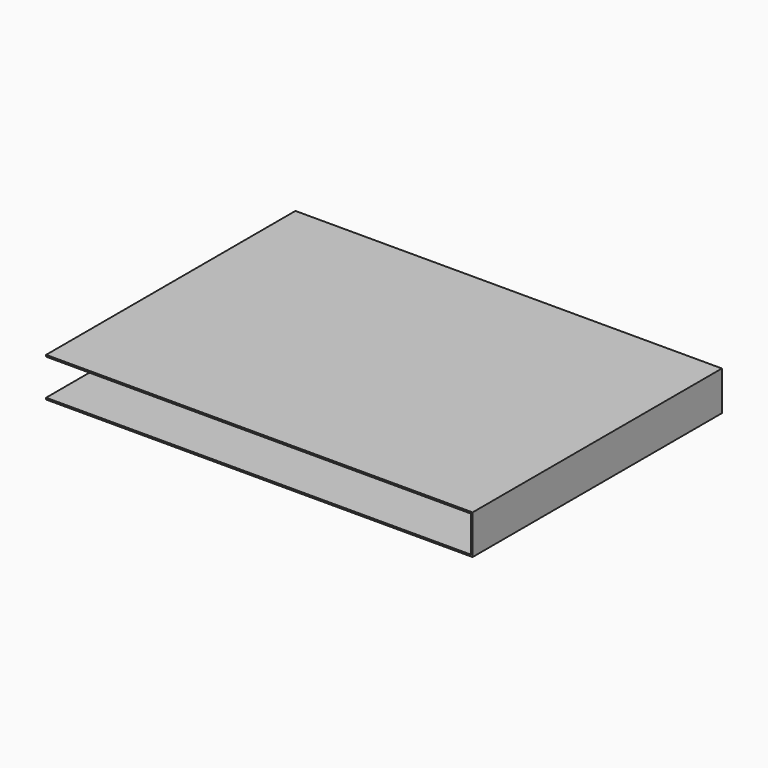
from build123d import *

# Parameters (mm, degrees)
BOX067_W               = 9.5
BOX067_H               = 12.95
BOX067_DEPTH           = 1.1
BOX066_W               = 9.5
BOX066_H               = 13
BOX066_DEPTH           = 1.2
CUT016_PLACEMENT_ANGLE = 270


with BuildPart() as small_cu_gnd_electrode018:
    # Box067 → Box067 (new body)
    with BuildSketch(Plane.XY.offset(0.05)):
        with Locations((4.75, 6.475)):
            Rectangle(BOX067_W, BOX067_H)
    extrude(amount=BOX067_DEPTH)


with BuildPart() as large_cu_electrode_long_axis_v_x:
    # Box066 → Box066 (new body)
    with BuildSketch(Plane.XY):
        with Locations((4.75, 6.5)):
            Rectangle(BOX066_W, BOX066_H)
    extrude(amount=BOX066_DEPTH)

    # Cut016: cut Small Cu GND Electrode018
    add(small_cu_gnd_electrode018.part, mode=Mode.SUBTRACT)


with BuildPart() as large_cu_electrode_long_axis_v_x_1:
    # Cut016 placement: moved
    add(large_cu_electrode_long_axis_v_x.part.moved(Location((-4.76, 19.13, 18.8))).rotate(Axis((-4.76, 19.13, 18.8), (0, 0, 1)), CUT016_PLACEMENT_ANGLE))


solid = large_cu_electrode_long_axis_v_x_1.part
